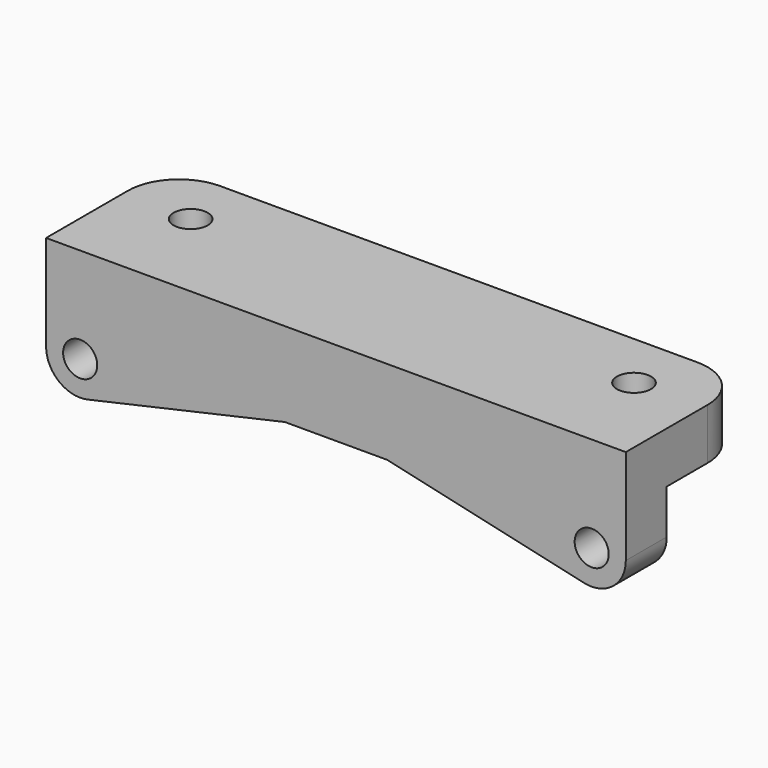
from build123d import *

# Parameters (mm, degrees)
F0_W      = 170
F0_H      = 45
F1_DEPTH  = 52.5
F3_D      = 10
F5_DEPTH  = 45.001
F6_W      = 30
F6_H      = 37.5
F7_DEPTH  = 170.001
F9_D      = 10
F11_DEPTH = 45.001
F12_R     = 15
F14_DEPTH = 15
F16_DEPTH = 25


with BuildPart() as f1:
    # F0 (on Top) → F1 (new body)
    with BuildSketch(Plane.XY):
        Rectangle(F0_W, F0_H)
    extrude(amount=F1_DEPTH)

    # F3 (through all)
    with Locations(Plane.XY.offset(52.5)):
        with Locations((-65, 5.5), (65, 5.5)):
            Hole(F3_D / 2)

    # F4 (on face) → F5 (cut, through all)
    with BuildSketch(Plane.XZ.offset(22.5)):
        with BuildLine():
            Line((-85, 0), (85, 0))
            ThreePointArc((85, 0), (0, 27.5), (-85, 0))
        make_face()
    extrude(amount=-F5_DEPTH, mode=Mode.SUBTRACT)

    # F6 (on face) → F7 (cut, through all)
    with BuildSketch(Plane.YZ.offset(85)):
        with Locations((7.5, 18.75)):
            Rectangle(F6_W, F6_H)
    extrude(amount=-F7_DEPTH, mode=Mode.SUBTRACT)

    # F9 (through all)
    with Locations(Plane.XZ.offset(22.5)):
        with Locations((-75, 24.5), (75, 24.5)):
            Hole(F9_D / 2)

    # F10 (on face) → F11 (cut, through all)
    with BuildSketch(Plane.XZ.offset(22.5)):
        with BuildLine():
            ThreePointArc((85, 24.5), (81.246693, 16.691106), (72.804234, 14.744047))
            Line((72.804234, 14.744047), (31.863562, 23.958539))
            Line((31.863562, 23.958539), (85, 0))
            Line((85, 0), (85, 24.5))
        make_face()
        with BuildLine():
            ThreePointArc((-72.804234, 14.744047), (-81.246693, 16.691106), (-85, 24.5))
            Line((-85, 24.5), (-85, 0))
            Line((-85, 0), (-31.863562, 23.958539))
            Line((-31.863562, 23.958539), (-72.804234, 14.744047))
        make_face()
    extrude(amount=-F11_DEPTH, mode=Mode.SUBTRACT)

    # F12
    f12_edges = [f1.edges().sort_by_distance(p)[0] for p in [
        (85, 22.5, 45),
        (-85, 22.5, 45),
    ]]
    fillet(f12_edges, radius=F12_R)

    # F13 (on face) → F14 (join, through all)
    with BuildSketch(Plane.XZ.offset(22.5)):
        Polygon((-48.969162, 34.744047), (-72.804234, 14.744047), (72.804234, 14.744047), (48.969162, 34.744047), align=None)
    extrude(amount=-F14_DEPTH)

    # F15 (on face) → F16 (cut)
    with BuildSketch(Plane.XZ.offset(22.5)):
        Polygon((-15, 27.744047), (-72.804234, 14.744047), (72.804234, 14.744047), (15, 27.744047), align=None)
    extrude(amount=-F16_DEPTH, mode=Mode.SUBTRACT)


solid = f1.part
